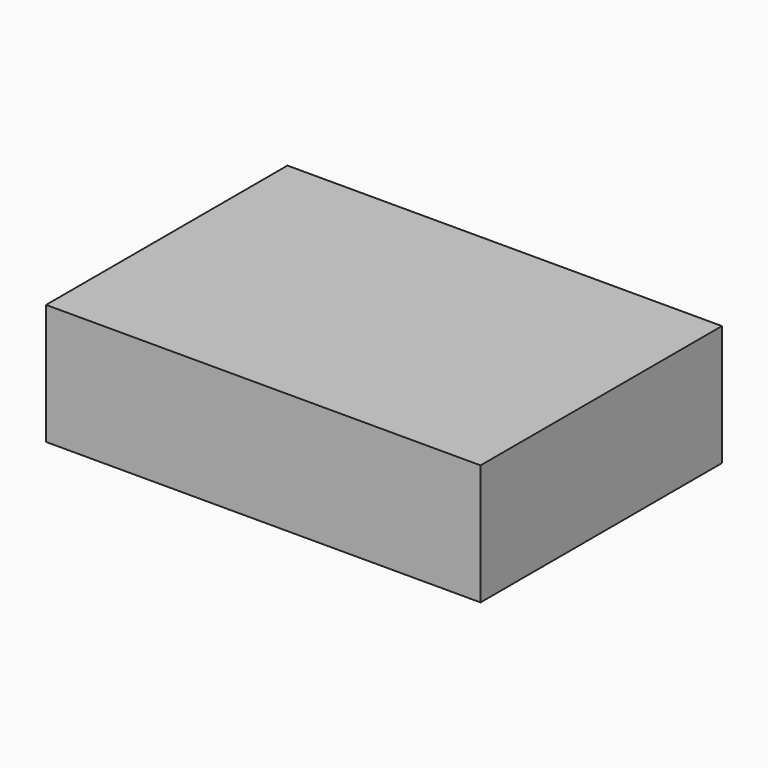
from build123d import *

# Parameters (mm, degrees)
F0_W      = 91.44
F0_H      = 63.5
F1_DEPTH  = 25.4
F3_W      = 62.104847
F3_H      = 24.073936
F4_DEPTH  = 89.154
F5_W      = 91.44
F5_H      = 0.576332
F6_DEPTH  = 63.2206
F7_W      = 11.196822
F7_H      = 30.827232
F8_DEPTH  = 15.24
F9_W      = 11.196822
F9_H      = 30.827232
F10_DEPTH = 0.635


with BuildPart() as f1:
    # F0 (on Top) → F1 (new body)
    with BuildSketch(Plane.XY):
        Rectangle(F0_W, F0_H)
    extrude(amount=F1_DEPTH)

    # F3 (on face) → F4 (cut)
    with BuildSketch(Plane(origin=(-45.72, 0, 0), x_dir=(0, -1, 0), z_dir=(-1, 0, 0))):
        with Locations((0.017024, 12.710826)):
            Rectangle(F3_W, F3_H)
    extrude(amount=-F4_DEPTH, mode=Mode.SUBTRACT)

    # F5 (on face) → F6 (join)
    with BuildSketch(Plane.XZ.offset(31.75)):
        with Locations((0, 16.477615)):
            Rectangle(F5_W, F5_H)
    extrude(amount=-F6_DEPTH)

    # F7 (on face) → F8 (cut)
    with BuildSketch(Plane.XY.offset(25.4)):
        Rectangle(F7_W, F7_H)
    extrude(amount=-F8_DEPTH, mode=Mode.SUBTRACT)

    # F9 (on face) → F10 (join)
    with BuildSketch(Plane.XY.offset(25.4)):
        Rectangle(F9_W, F9_H)
    extrude(amount=-F10_DEPTH)


solid = f1.part
